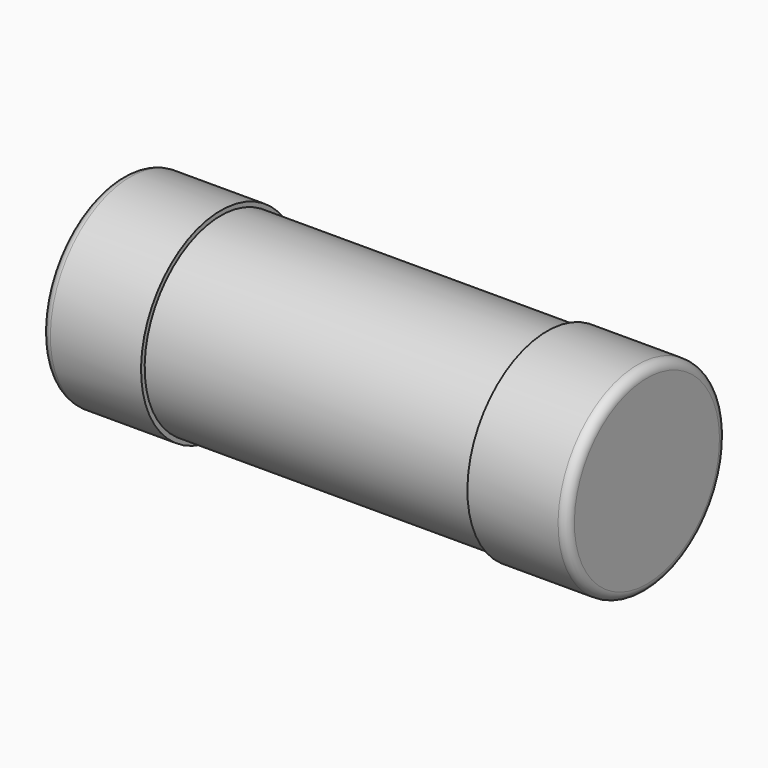
from build123d import *

# Parameters (mm, degrees)
SKETCH_W = 4.7
SKETCH_H = 1.05


with BuildPart() as revolution:
    # Sketch → Revolution (revolve)
    with BuildSketch(Plane.XZ):
        with Locations((0, 0.575)):
            Rectangle(SKETCH_W, SKETCH_H)
    revolve(axis=Axis((-15.061842, 0, 1.1), (1, 0, 0)))


with BuildPart() as fusion:
    # Sketch001 → Revolution001 (revolve)
    with BuildSketch(Plane.XZ):
        with BuildLine():
            Line((-2.8, 0), (-1.8, 0))
            Line((-1.8, 0), (-1.8, 1))
            Line((-1.8, 1), (1.8, 1))
            Line((1.8, 0), (1.8, 1))
            Line((1.8, 0), (2.8, 0))
            ThreePointArc((2.8, 0), (2.870711, 0.029289), (2.9, 0.1))
            Line((2.9, 0.1), (2.9, 1.1))
            Line((-2.9, 1.1), (2.9, 1.1))
            Line((-2.9, 1.1), (-2.9, 0.1))
            ThreePointArc((-2.9, 0.1), (-2.870711, 0.029289), (-2.8, 0))
        make_face()
    revolve(axis=Axis((-7.1, 0, 1.1), (1, 0, 0)))

    # Fusion: union Revolution
    add(revolution.part)


solid = fusion.part
